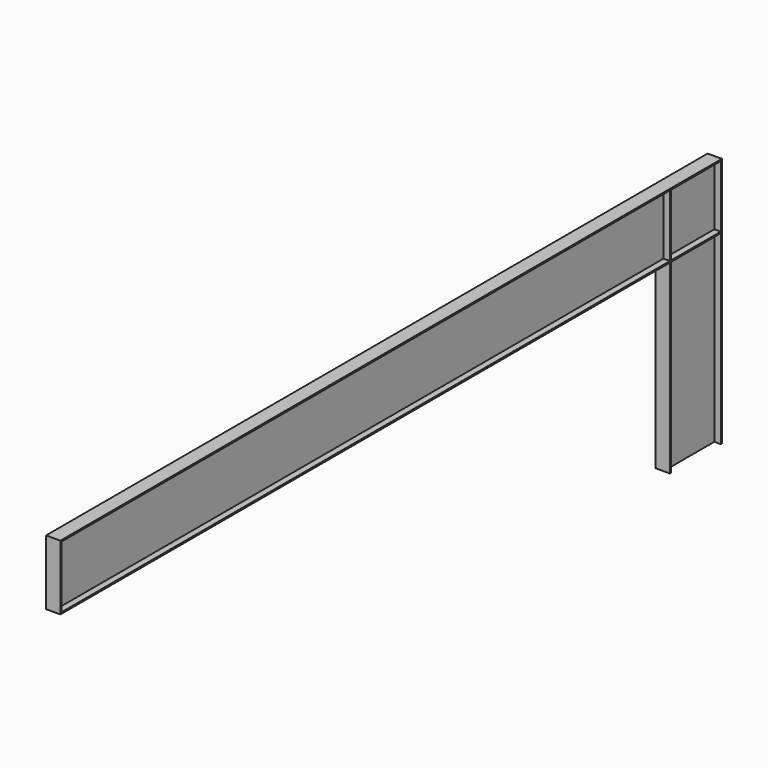
from build123d import *

# Parameters (mm, degrees)
F1_DEPTH  = 349
F2_W      = 9
F2_H      = 87
F3_DEPTH  = 2
F4_W      = 87
F4_H      = 2
F5_DEPTH  = 9
F6_DEPTH  = 11
F8_DEPTH  = 1067
F9_W      = 9
F9_H      = 87
F10_DEPTH = 2


with BuildPart() as f1:
    # F0 (on Top) → F1 (new body)
    with BuildSketch(Plane.XY):
        Polygon((-20, 0), (0, 0), (0, 2), (-9, 2), (-9, 89), (0, 89), (0, 91), (-20, 91), (-20, 89), (-11, 89), (-11, 2), (-20, 2), align=None)
    extrude(amount=F1_DEPTH)

    # F2 (on face) → F3 (join)
    with BuildSketch(Plane.XY.offset(349)):
        Polygon((-20, 0), (0, 0), (0, 2), (-9, 2), (-9, 89), (0, 89), (0, 91), (-20, 91), (-20, 89), (-11, 89), (-11, 2), (-20, 2), align=None)
        with Locations((-15.5, 45.5)):
            Rectangle(F2_W, F2_H)
        with Locations((-4.5, 45.5)):
            Rectangle(F2_W, F2_H)
    extrude(amount=F3_DEPTH)

    # F4 (on face) → F5 (join, through all)
    with BuildSketch(Plane(origin=(-11, 0, 0), x_dir=(0, -1, 0), z_dir=(-1, 0, 0))):
        with Locations((-45.5, 261)):
            Rectangle(F4_W, F4_H)
    extrude(amount=F5_DEPTH)

    # F4 (on face) → F6 (join, through all)
    with BuildSketch(Plane(origin=(-11, 0, 0), x_dir=(0, -1, 0), z_dir=(-1, 0, 0))):
        with Locations((-45.5, 261)):
            Rectangle(F4_W, F4_H)
    extrude(amount=-F6_DEPTH)

    # F7 (on face) → F8 (join)
    with BuildSketch(Plane.XZ):
        Polygon((0, 351), (-20, 351), (-20, 349), (-11, 349), (-11, 262), (-20, 262), (-20, 260), (0, 260), (0, 262), (-9, 262), (-9, 349), (0, 349), align=None)
    extrude(amount=F8_DEPTH)

    # F9 (on face) → F10 (join)
    with BuildSketch(Plane.XZ.offset(1067)):
        with Locations((-15.5, 305.5)):
            Rectangle(F9_W, F9_H)
        with Locations((-4.5, 305.5)):
            Rectangle(F9_W, F9_H)
    extrude(amount=-F10_DEPTH)


solid = f1.part
